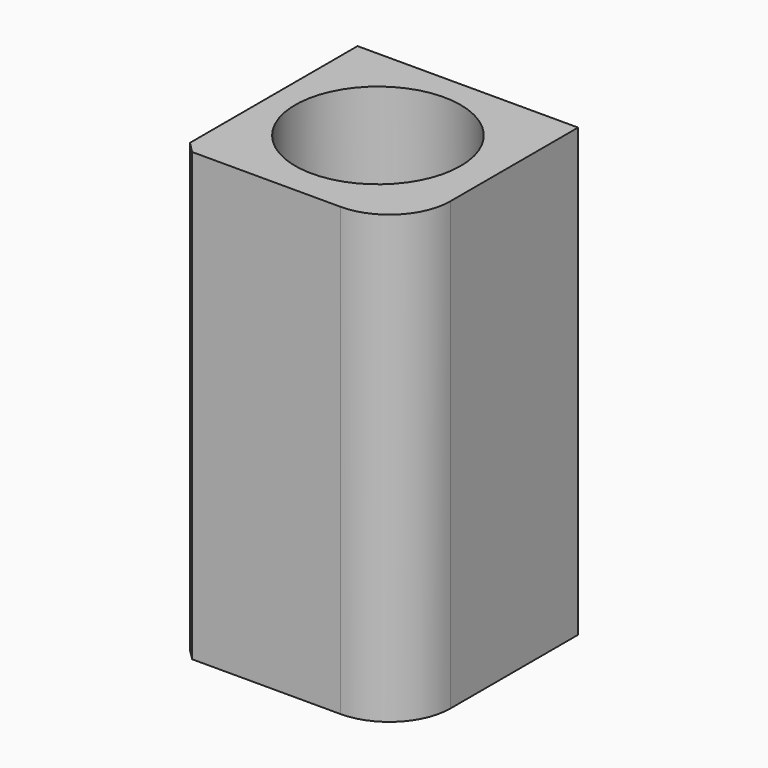
from build123d import *

# Parameters (mm, degrees)
F0_W     = 101.6
F0_H     = 101.6
F1_DEPTH = 205.74
F3_R     = 38.1
F4_DEPTH = 205.741
F5_R     = 28.207671
F6_SIZE  = 5.08


with BuildPart() as f1:
    # F0 (on Top) → F1 (new body)
    with BuildSketch(Plane.XY):
        with Locations((50.8, 50.8)):
            Rectangle(F0_W, F0_H)
    extrude(amount=F1_DEPTH)

    # F3 (on face) → F4 (cut, through all)
    with BuildSketch(Plane.XY.offset(205.74)):
        with Locations((49.21547, 51.832616)):
            Circle(F3_R)
    extrude(amount=-F4_DEPTH, mode=Mode.SUBTRACT)

    # F5
    f5_edges = [f1.edges().sort_by_distance(p)[0] for p in [
        (101.6, 0, 102.87),
    ]]
    fillet(f5_edges, radius=F5_R)

    # F6
    f6_edges = [f1.edges().sort_by_distance(p)[0] for p in [
        (0, 0, 102.87),
    ]]
    chamfer(f6_edges, length=F6_SIZE)


solid = f1.part
